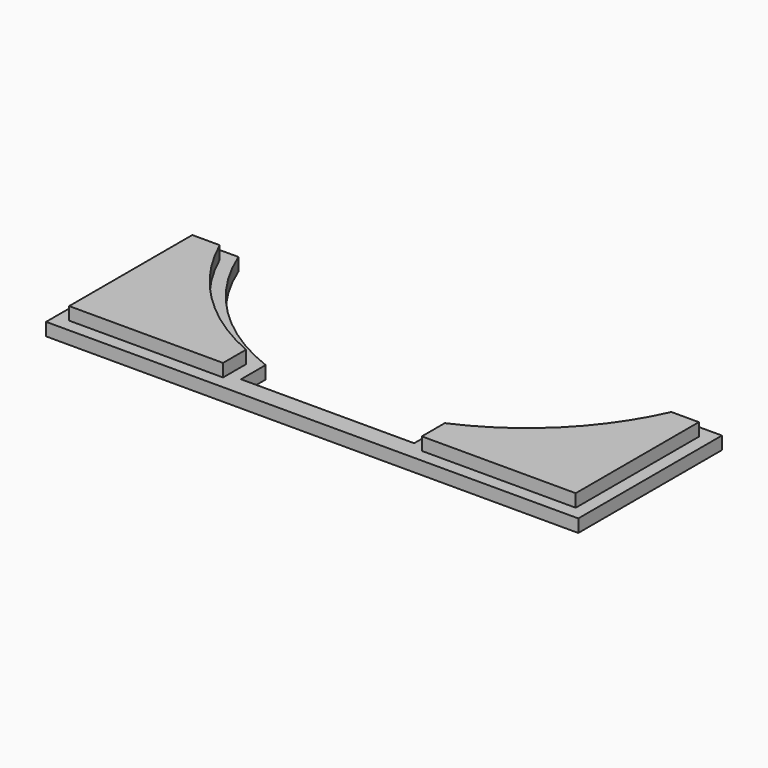
from build123d import *

# Parameters (mm, degrees)
F1_DEPTH = 12.7
F3_DEPTH = 6.35


with BuildPart() as f1:
    # F0 (on Top) → F1 (new body)
    with BuildSketch(Plane.XY):
        with BuildLine():
            Line((-131.7625, -43.9250247525), (-131.7625, -132.8250247525))
            Line((-131.7625, -132.8250247525), (131.7625, -132.8250247525))
            Line((131.7625, -132.8250247525), (131.7625, -43.9250247525))
            Line((131.7625, -43.9250247525), (107.6325, -43.9250247525))
            ThreePointArc((107.6325, -43.9250247525), (81.7955427423, -82.6053996011), (42.8625, -108.0600247525))
            Line((42.8625, -108.0600247525), (42.8625, -123.3000247525))
            Line((42.8625, -123.3000247525), (-42.8625, -123.3000247525))
            Line((-42.8625, -123.3000247525), (-42.8625, -108.0600247525))
            ThreePointArc((-42.8625, -108.0600247525), (-81.9172837619, -82.7283459773), (-107.6325, -43.9250247525))
            Line((-107.6325, -43.9250247525), (-131.7625, -43.9250247525))
        make_face()
    extrude(amount=F1_DEPTH)

    # F2 (on face) → F3 (cut)
    with BuildSketch(Plane.XY.offset(12.7)):
        with BuildLine():
            Line((-42.8625, -123.3000247525), (-42.8625, -108.0600247525))
            ThreePointArc((-42.8625, -108.0600247525), (-81.9172837619, -82.7283459773), (-107.6325, -43.9250247525))
            Line((-107.6325, -43.9250247525), (-131.7625, -43.9250247525))
            Line((-131.7625, -43.9250247525), (-131.7625, -132.8250247525))
            Line((-131.7625, -132.8250247525), (-42.8625, -132.8250247525))
            Line((-42.8625, -132.8250247525), (42.8625, -132.8250247525))
            Line((42.8625, -132.8250247525), (131.7625, -132.8250247525))
            Line((131.7625, -132.8250247525), (131.7625, -43.9250247525))
            Line((131.7625, -43.9250247525), (107.6325, -43.9250247525))
            ThreePointArc((107.6325, -43.9250247525), (81.7955427423, -82.6053996011), (42.8625, -108.0600247525))
            Line((42.8625, -108.0600247525), (42.8625, -123.3000247525))
            Line((42.8625, -123.3000247525), (-42.8625, -123.3000247525))
        make_face()
        with BuildLine():
            ThreePointArc((-111.8263726608, -50.2750247525), (-86.3118667631, -87.1341700783), (-49.2125, -112.2981044118))
            Line((-49.2125, -112.2981044118), (-49.2125, -126.4750247525))
            Line((-49.2125, -126.4750247525), (-125.4125, -126.4750247525))
            Line((-125.4125, -126.4750247525), (-125.4125, -50.2750247525))
            Line((-125.4125, -50.2750247525), (-111.8263726608, -50.2750247525))
        make_face(mode=Mode.SUBTRACT)
        with BuildLine():
            Line((49.212500453, -126.4750242995), (49.212500453, -112.2897846992))
            ThreePointArc((49.212500453, -112.2897846992), (86.2796110209, -87.1016341449), (111.8181013486, -50.2750252055))
            Line((111.8181013486, -50.2750252055), (125.412499547, -50.2750252055))
            Line((125.412499547, -50.2750252055), (125.412499547, -126.4750242995))
            Line((125.412499547, -126.4750242995), (49.212500453, -126.4750242995))
        make_face(mode=Mode.SUBTRACT)
    extrude(amount=-F3_DEPTH, mode=Mode.SUBTRACT)


solid = f1.part
